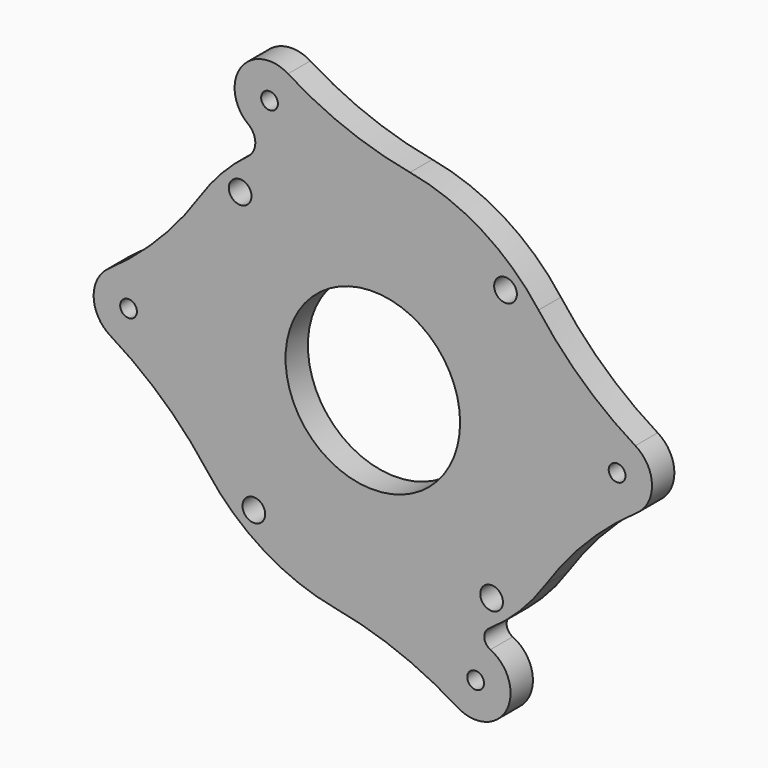
from build123d import *

# Parameters (mm, degrees)
F0_R     = 3.25
F0_R_2   = 2.4
F0_R_3   = 25
F1_DEPTH = 8


with BuildPart() as f1:
    # F0 (on Front) → F1 (new body)
    with BuildSketch(Plane.XZ):
        with BuildLine():
            ThreePointArc((-35.636863, 55.482015), (-33.663679, 51.486611), (-35.661818, 47.503628))
            ThreePointArc((-35.661818, 47.503628), (-43.197676, 40.771569), (-49.483404, 32.859591))
            ThreePointArc((-49.483404, 32.859591), (-61.316735, 18.237762), (-75.678931, 6.090625))
            ThreePointArc((-75.678931, 6.090625), (-79.963365, -2.420787), (-75.171905, -10.657439))
            ThreePointArc((-75.171905, -10.657439), (-60.101207, -21.913533), (-47.405043, -35.792763))
            ThreePointArc((-47.405043, -35.792763), (-31.204449, -50.54347), (-10.758408, -58.417606))
            ThreePointArc((-10.758408, -58.417606), (7.338328, -63.549248), (24.153913, -71.979058))
            ThreePointArc((24.153913, -71.979058), (38.248014, -68.265692), (33.665686, -54.429687))
            ThreePointArc((33.665686, -54.429687), (31.938042, -51.947575), (33.24924, -49.222435))
            ThreePointArc((33.24924, -49.222435), (42.12576, -41.878161), (49.41758, -32.958501))
            ThreePointArc((49.41758, -32.958501), (61.280134, -18.36037), (75.666598, -6.241984))
            ThreePointArc((75.666598, -6.241984), (79.968047, 2.260842), (75.193072, 10.507061))
            ThreePointArc((75.193072, 10.507061), (60.144918, 21.793276), (47.47654, 35.697873))
            ThreePointArc((47.47654, 35.697873), (31.204449, 50.54347), (10.641541, 58.439008))
            ThreePointArc((10.641541, 58.439008), (-7.465423, 63.534443), (-24.297835, 71.930602))
            ThreePointArc((-24.297835, 71.930602), (-37.816535, 69.117238), (-35.636863, 55.482015))
        make_face()
        with Locations((-34.077461, -41.242898)):
            Circle(F0_R, mode=Mode.SUBTRACT)
        with Locations((-69.967945, -2.118189)):
            Circle(F0_R_2, mode=Mode.SUBTRACT)
        with Locations((29.456325, -63.50059)):
            Circle(F0_R_2, mode=Mode.SUBTRACT)
        with Locations((34.022539, -41.288217)):
            Circle(F0_R, mode=Mode.SUBTRACT)
        Circle(F0_R_3, mode=Mode.SUBTRACT)
        with Locations((-38, 37.65966)):
            Circle(F0_R, mode=Mode.SUBTRACT)
        with Locations((-29.583278, 63.441545)):
            Circle(F0_R_2, mode=Mode.SUBTRACT)
        with Locations((69.972041, 1.978236)):
            Circle(F0_R_2, mode=Mode.SUBTRACT)
        with Locations((38, 37.65966)):
            Circle(F0_R, mode=Mode.SUBTRACT)
    extrude(amount=F1_DEPTH)


solid = f1.part
